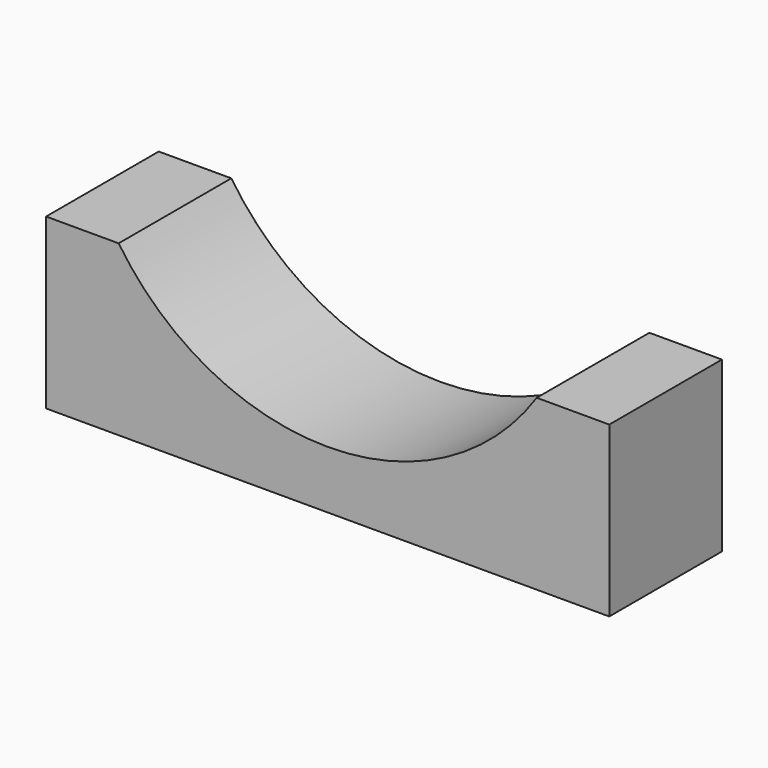
from build123d import *

# Parameters (mm, degrees)
F1_DEPTH = 50


with BuildPart() as f1:
    # F0 (on Front) → F1 (new body)
    with BuildSketch(Plane.XZ):
        with BuildLine():
            ThreePointArc((74.231058, -50), (0, -89.5), (-74.231058, -50))
            Line((-74.231058, -50), (-100, -50))
            Line((-100, -50), (-100, -110))
            Line((-100, -110), (100, -110))
            Line((100, -110), (100, -50))
            Line((100, -50), (74.231058, -50))
        make_face()
    extrude(amount=-F1_DEPTH)


solid = f1.part
